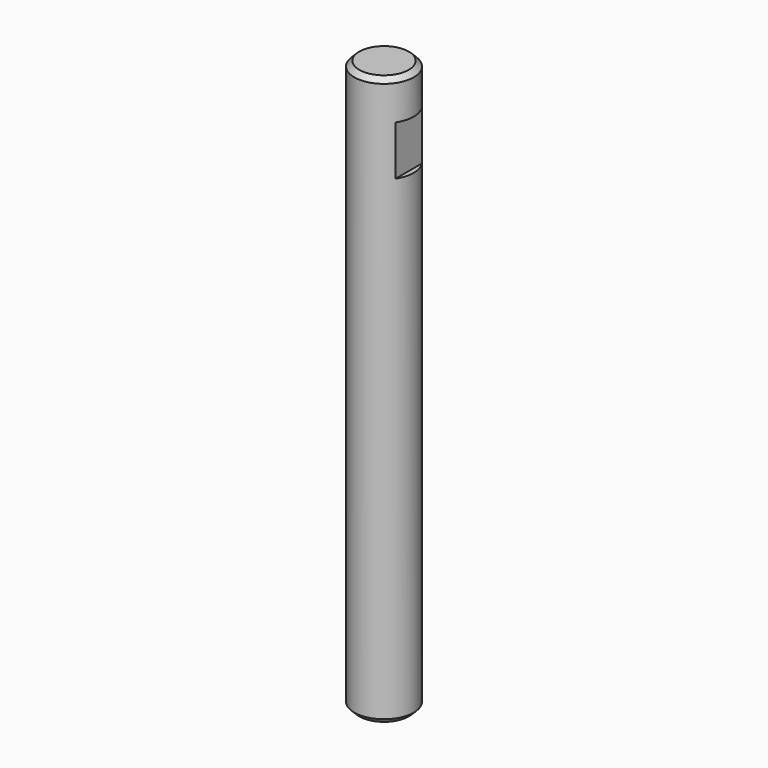
from build123d import *

# Parameters (mm, degrees)
F0_R          = 6
F1_DEPTH      = 115
F2_W          = 1
F2_H          = 10
F3_DEPTH      = 6.001
F3_DEPTH_BACK = 6.001
F4_SIZE2      = 1
F4_SIZE       = 1


with BuildPart() as f1:
    # F0 (on Top) → F1 (new body)
    with BuildSketch(Plane.XY):
        Circle(F0_R)
    extrude(amount=-F1_DEPTH)

    # F2 (on Front) → F3 (cut, two sides)
    with BuildSketch(Plane.XZ) as f3_sk:
        with Locations((5.5, -13)):
            Rectangle(F2_W, F2_H)
        with Locations((-5.5, -13)):
            Rectangle(F2_W, F2_H)
    extrude(amount=-F3_DEPTH, mode=Mode.SUBTRACT)
    extrude(f3_sk.sketch, amount=F3_DEPTH_BACK, mode=Mode.SUBTRACT)

    # F4
    f4_edges = [f1.edges().sort_by_distance(p)[0] for p in [
        (-6, 0, 0),
        (-6, 0, -115),
    ]]
    chamfer(f4_edges, length=F4_SIZE, length2=F4_SIZE2)


solid = f1.part
